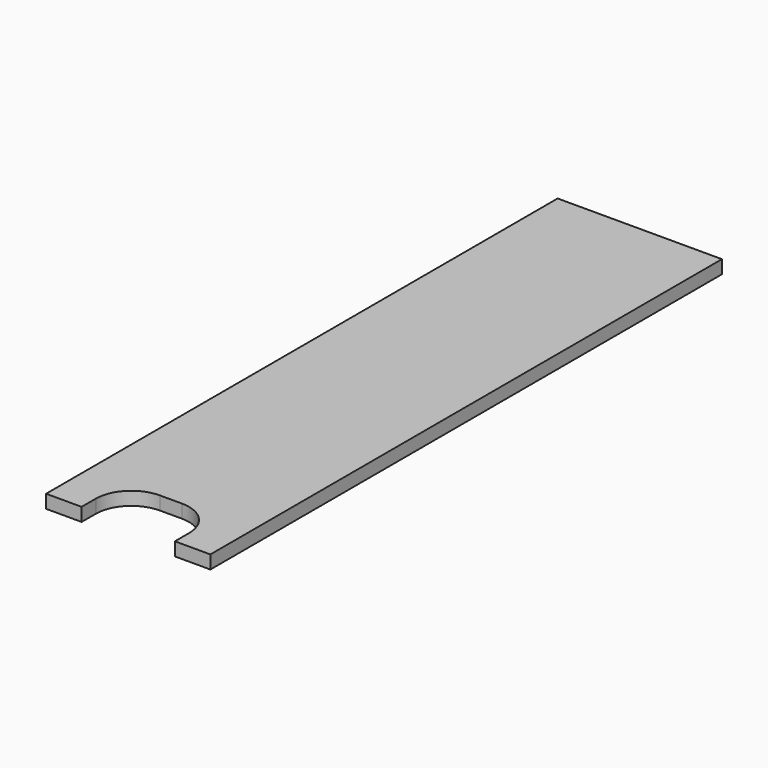
from build123d import *

# Parameters (mm, degrees)
F0_W     = 234.95
F0_H     = 914.4
F1_DEPTH = 19.05
F2_W     = 133.35
F2_H     = 76.2
F3_DEPTH = 19.05
F4_R     = 50.8


with BuildPart() as f1:
    # F0 (on Top) → F1 (new body)
    with BuildSketch(Plane.XY):
        with Locations((117.475, -457.2)):
            Rectangle(F0_W, F0_H)
    extrude(amount=F1_DEPTH)

    # F2 (on face) → F3 (cut)
    with BuildSketch(Plane.XY.offset(19.05)):
        with Locations((117.475, -876.3)):
            Rectangle(F2_W, F2_H)
    extrude(amount=-F3_DEPTH, mode=Mode.SUBTRACT)

    # F4
    f4_edges = [f1.edges().sort_by_distance(p)[0] for p in [
        (50.8, -838.2, 9.525),
        (184.15, -838.2, 9.525),
    ]]
    fillet(f4_edges, radius=F4_R)


solid = f1.part
